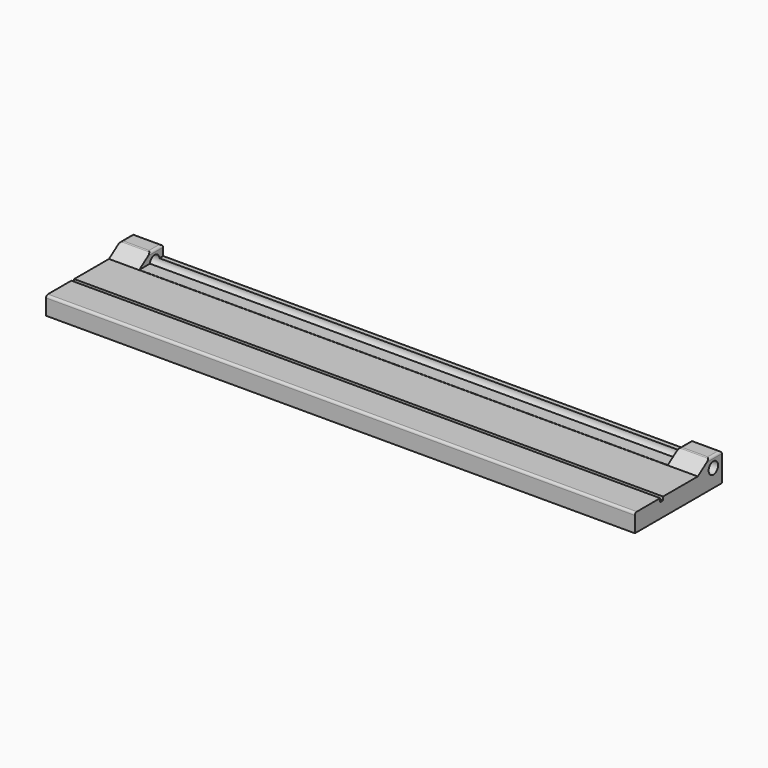
from build123d import *

# Parameters (mm, degrees)
SKETCH_R     = 2.5
PAD_DEPTH    = 248
SKETCH001_W  = 4.639466
SKETCH001_H  = 222.6
POCKET_DEPTH = 25.4
FILLET_R     = 1
FILLET001_R  = 1
FILLET002_R  = 1


with BuildPart() as part:
    # Sketch → Pad (new body)
    with BuildSketch(Plane.YZ):
        Polygon((0, 0), (45.8, 0), (45.8, 7.62), (45.8, 11.938), (39.266743, 11.938), (33.1, 7.62), (14.8, 7.62), (14.8, 6.12), (13.3, 6.12), (13.3, 7.62), (0, 7.62), align=None)
        with Locations((41.3, 7.438)):
            Circle(SKETCH_R, mode=Mode.SUBTRACT)
    extrude(amount=PAD_DEPTH)

    # Sketch001 (on Face3 of Pad) → Pocket (cut)
    with BuildSketch(Plane.ZX.offset(45.8)):
        with Locations((9.990006, 124)):
            Rectangle(SKETCH001_W, SKETCH001_H)
    extrude(amount=-POCKET_DEPTH, mode=Mode.SUBTRACT)

    # Fillet
    fillet_edges = [part.edges().sort_by_distance(p)[0] for p in [
        (124, 0, 7.62),
    ]]
    fillet(fillet_edges, radius=FILLET_R)

    # Fillet001
    fillet001_edges = [part.edges().sort_by_distance(p)[0] for p in [
        (235.3, 42.533372, 11.938),
        (241.65, 39.266743, 11.938),
        (248, 42.533372, 11.938),
        (241.65, 45.8, 11.938),
    ]]
    fillet(fillet001_edges, radius=FILLET001_R)

    # Fillet002
    fillet002_edges = [part.edges().sort_by_distance(p)[0] for p in [
        (0, 42.533372, 11.938),
        (6.35, 39.266743, 11.938),
        (12.7, 42.533372, 11.938),
        (6.35, 45.8, 11.938),
    ]]
    fillet(fillet002_edges, radius=FILLET002_R)


solid = part.part
